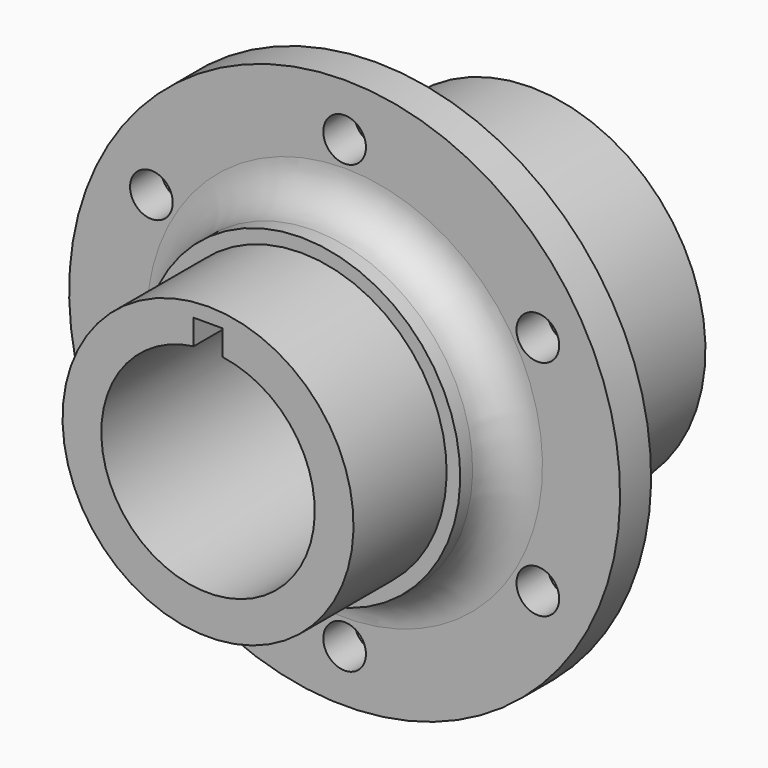
from build123d import *

# Parameters (mm, degrees)
F4_D     = 34.925
F6_D     = 6.985
F8_DEPTH = 66.04


with BuildPart() as f2:
    # F0 (on Right) → F2 (revolve)
    with BuildSketch(Plane.YZ):
        with BuildLine():
            Line((0, 23.8125), (0, 0))
            Line((0, 0), (66.04, 0))
            Line((66.04, 0), (66.04, 28.575))
            Line((66.04, 28.575), (34.29, 28.575))
            Line((34.29, 28.575), (34.29, 45.085))
            Line((34.29, 45.085), (27.94, 45.085))
            Line((27.94, 45.085), (27.94, 32.385))
            ThreePointArc((27.94, 32.385), (26.080128, 27.894872), (21.59, 26.035))
            Line((21.59, 26.035), (19.05, 26.035))
            Line((19.05, 26.035), (19.05, 23.8125))
            Line((19.05, 23.8125), (0, 23.8125))
        make_face()
    revolve(axis=Axis((0, 38.1, 0), (0, 1, 0)))

    # F4 (through all)
    with Locations(Plane.XZ):
        with Locations((0, 0)):
            Hole(F4_D / 2)

    # F6 (through all)
    with Locations(Plane.XZ.offset(-27.94)):
        with Locations((0, 36.5125), (31.620753, 18.25625), (31.620753, -18.25625), (0, -36.5125), (-31.620753, -18.25625), (-31.620753, 18.25625)):
            Hole(F6_D / 2)

    # F7 (on Front) → F8 (cut)
    with BuildSketch(Plane.XZ):
        Polygon((2.3495, 21.429623), (0, 21.429623), (-2.3495, 21.429623), (-2.3495, 16.803641), (0, 16.803641), (2.3495, 16.803641), align=None)
    extrude(amount=-F8_DEPTH, mode=Mode.SUBTRACT)


solid = f2.part
